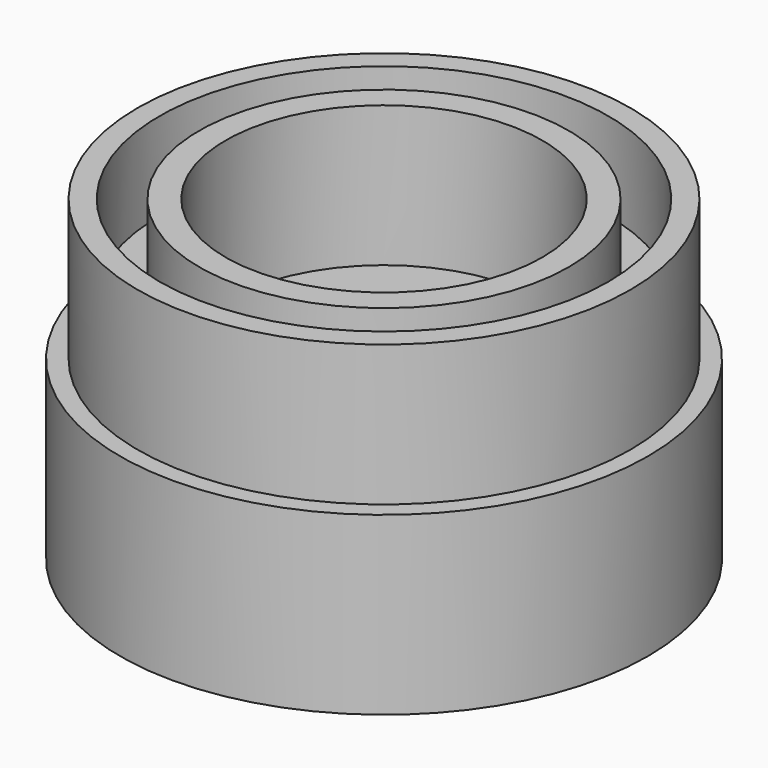
from build123d import *

# Parameters (mm, degrees)
F0_R     = 14
F0_R_2   = 9
F1_DEPTH = 18
F2_R     = 15
F3_DEPTH = 10
F4_R     = 12.75
F4_R_2   = 10.5
F5_DEPTH = 5
F6_R     = 6
F6_R_2   = 3
F7_DEPTH = 5
F8_R     = 12
F8_R_2   = 9
F9_DEPTH = 5


with BuildPart() as f1:
    # F0 (on Top) → F1 (new body)
    with BuildSketch(Plane.XY):
        Circle(F0_R)
        Circle(F0_R_2, mode=Mode.SUBTRACT)
    extrude(amount=F1_DEPTH)

    # F2 (on face) → F3 (join)
    with BuildSketch(Plane(origin=(0, 0, 0), x_dir=(1, 0, 0), z_dir=(0, 0, -1))):
        Circle(F2_R)
    extrude(amount=-F3_DEPTH)

    # F4 (on face) → F5 (cut)
    with BuildSketch(Plane.XY.offset(18)):
        Circle(F4_R)
        Circle(F4_R_2, mode=Mode.SUBTRACT)
    extrude(amount=-F5_DEPTH, mode=Mode.SUBTRACT)

    # F6 (on face) → F7 (cut)
    with BuildSketch(Plane(origin=(0, 0, 0), x_dir=(1, 0, 0), z_dir=(0, 0, -1))):
        Circle(F6_R)
        Circle(F6_R_2, mode=Mode.SUBTRACT)
    extrude(amount=-F7_DEPTH, mode=Mode.SUBTRACT)

    # F8 (on face) → F9 (cut)
    with BuildSketch(Plane(origin=(0, 0, 0), x_dir=(1, 0, 0), z_dir=(0, 0, -1))):
        Circle(F8_R)
        Circle(F8_R_2, mode=Mode.SUBTRACT)
    extrude(amount=-F9_DEPTH, mode=Mode.SUBTRACT)


solid = f1.part
